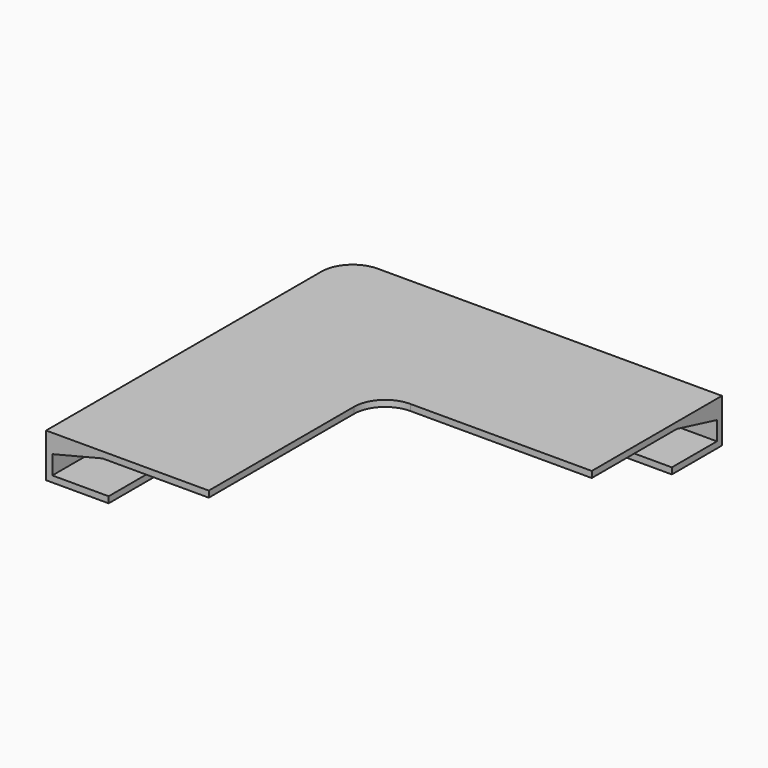
from build123d import *

# Parameters (mm, degrees)
F3_R = 5
F4_R = 5


with BuildPart() as f2:
    # F2: sweep along a path in F1
    with BuildLine(Plane.XY) as f2_path:
        Line((0, 1.6581159234), (-60, 1.6581159234))
        Line((-60, 1.6581159234), (-60, -58.3418840766))
    # F0 (on Right) → F2 (sweep)
    with BuildSketch(Plane.YZ):
        Polygon((1.6581159234, 7), (-24.3418840766, 7), (-24.3418840766, 6), (-7.3418840766, 6), (0.6581159234, 4), (0.6581159234, 1), (-8.3418840766, 1), (-8.3418840766, 0), (1.6581159234, 0), align=None)
    sweep(path=f2_path.line, transition=Transition.RIGHT)

    # F3
    f3_edges = [f2.edges().sort_by_distance(p)[0] for p in [
        (-59, 0.658116, 2.5),
    ]]
    fillet(f3_edges, radius=F3_R)

    # F4
    f4_edges = [f2.edges().sort_by_distance(p)[0] for p in [
        (-34, -24.341884, 6.5),
        (-60, 1.658116, 3.5),
    ]]
    fillet(f4_edges, radius=F4_R)


solid = f2.part
